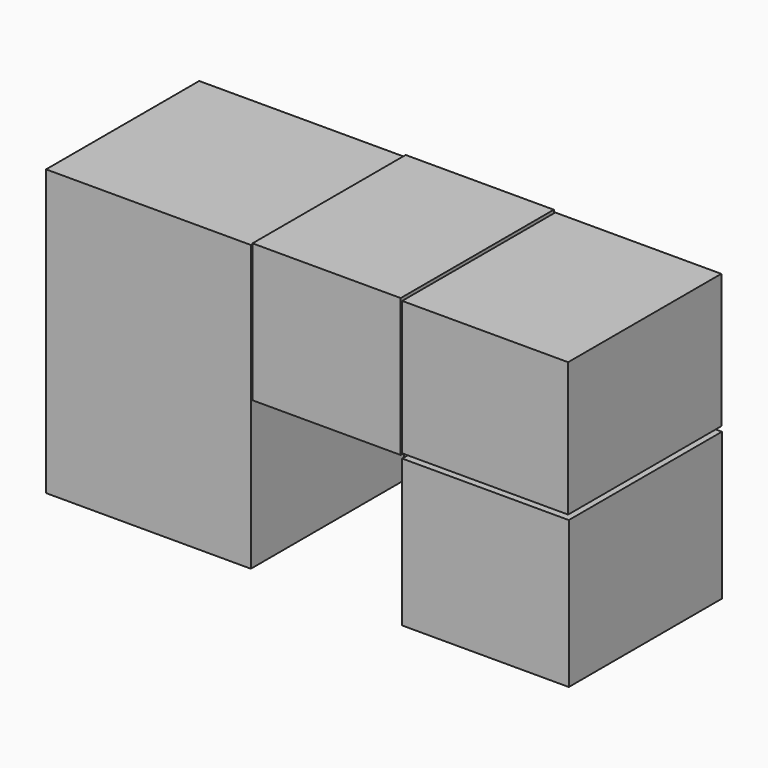
from build123d import *

# Parameters (mm, degrees)
F0_W     = 54.350611
F0_H     = 35.609208
F0_W_2   = 44.042959
F0_W_3   = 44.210896
F0_H_2   = 39.009629
F0_H_3   = 40.039834
F0_W_4   = 39.326694
F0_H_4   = 36.668632
F1_DEPTH = 50.8


with BuildPart() as f1:
    # F0 (on Front) → F1 (new body)
    with BuildSketch(Plane.XZ):
        with Locations((-47.280313, 17.804604)):
            Rectangle(F0_W, F0_H)
        with Locations((42.083602, 17.804604)):
            Rectangle(F0_W_2, F0_H)
        with Locations((42.176105, -20.728962)):
            Rectangle(F0_W_3, F0_H_2)
        with Locations((-47.280313, -20.019917)):
            Rectangle(F0_W, F0_H_3)
        with Locations((0, 17.804604)):
            Rectangle(F0_W_4, F0_H_4)
    extrude(amount=-F1_DEPTH)


solid = f1.part
